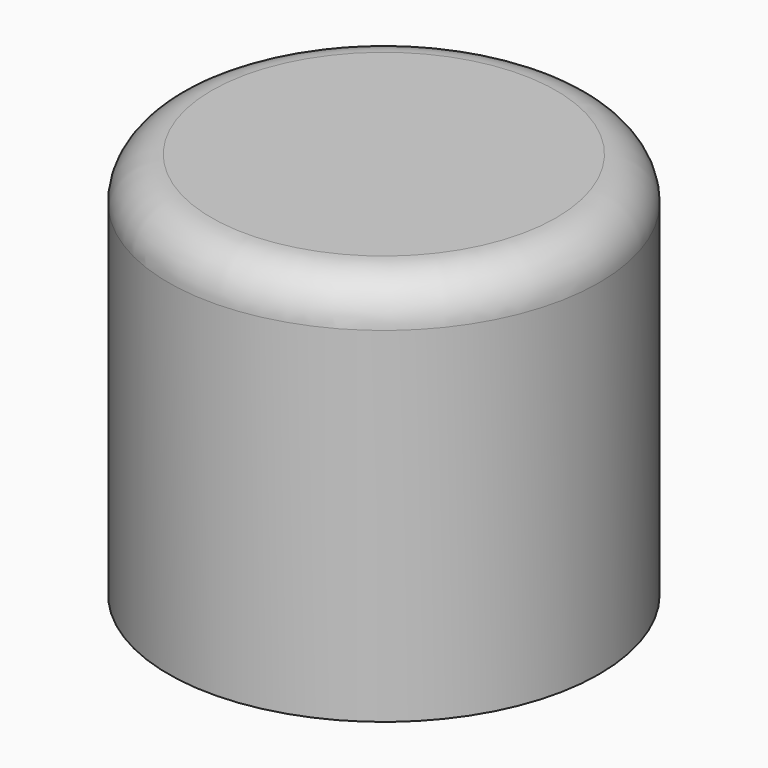
from build123d import *

# Parameters (mm, degrees)
F0_R     = 2.5
F0_R_2   = 1.85
F1_DEPTH = 4.5
F2_R     = 0.5
F3_DEPTH = 2.3


with BuildPart() as f1:
    # F0 (on Top) → F1 (new body)
    with BuildSketch(Plane.XY):
        Circle(F0_R)
        Circle(F0_R_2, mode=Mode.SUBTRACT)
        Circle(F0_R_2)
    extrude(amount=F1_DEPTH)

    # F2
    f2_edges = [f1.edges().sort_by_distance(p)[0] for p in [
        (-2.5, 0, 4.5),
    ]]
    fillet(f2_edges, radius=F2_R)

    # F0 (on Top) → F3 (cut)
    with BuildSketch(Plane.XY):
        Circle(F0_R_2)
    extrude(amount=F3_DEPTH, mode=Mode.SUBTRACT)


solid = f1.part
